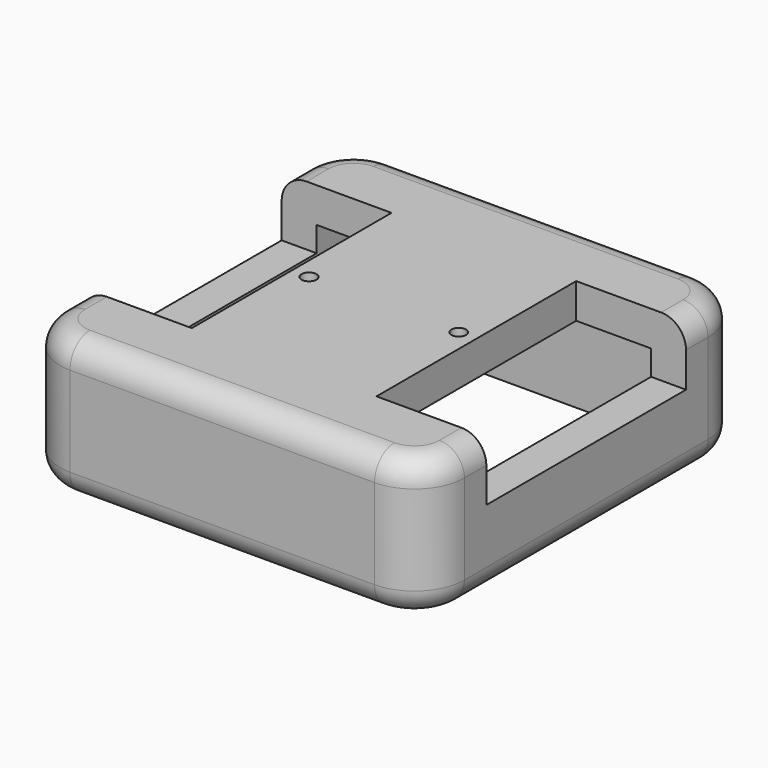
from build123d import *

# Parameters (mm, degrees)
F0_W      = 20.574
F0_H      = 20.574
F1_DEPTH  = 7.112
F2_W      = 17.018
F2_H      = 17.018
F3_DEPTH  = 5.334
F4_R      = 2.54
F5_W      = 5.588
F5_H      = 12.7
F6_DEPTH  = 3.048
F7_W      = 11.176
F7_H      = 12.7
F8_DEPTH  = 3.048
F9_R      = 0.3824187843
F9_R_2    = 0.3770429502
F10_DEPTH = 1.778
F11_R     = 1.27
F12_R     = 1.27


with BuildPart() as f1:
    # F0 (on Top) → F1 (new body)
    with BuildSketch(Plane.XY):
        Rectangle(F0_W, F0_H)
    extrude(amount=F1_DEPTH)

    # F2 (on face) → F3 (cut)
    with BuildSketch(Plane(origin=(0, 0, 0), x_dir=(1, 0, 0), z_dir=(0, 0, -1))):
        Rectangle(F2_W, F2_H)
    extrude(amount=-F3_DEPTH, mode=Mode.SUBTRACT)

    # F4
    f4_edges = [f1.edges().sort_by_distance(p)[0] for p in [
        (-10.287, -10.287, 3.556),
        (10.287, 10.287, 3.556),
        (10.287, -10.287, 3.556),
        (-10.287, 10.287, 3.556),
    ]]
    fillet(f4_edges, radius=F4_R)

    # F5 (on face) → F6 (cut)
    with BuildSketch(Plane.XY.offset(7.112)):
        with Locations((-7.493, 0)):
            Rectangle(F5_W, F5_H)
    extrude(amount=-F6_DEPTH, mode=Mode.SUBTRACT)

    # F7 (on face) → F8 (cut)
    with BuildSketch(Plane.XY.offset(7.112)):
        with Locations((10.287, 0)):
            Rectangle(F7_W, F7_H)
    extrude(amount=-F8_DEPTH, mode=Mode.SUBTRACT)

    # F9 (on face) → F10 (cut)
    with BuildSketch(Plane.XY.offset(7.112)):
        with Locations((-3.8157331292, 0)):
            Circle(F9_R)
        with Locations((3.8035737816, 0)):
            Circle(F9_R_2)
    extrude(amount=-F10_DEPTH, mode=Mode.SUBTRACT)

    # F11
    f11_edges = [f1.edges().sort_by_distance(p)[0] for p in [
        (0, 10.287, 7.112),
        (0, -10.287, 7.112),
    ]]
    fillet(f11_edges, radius=F11_R)

    # F12
    f12_edges = [f1.edges().sort_by_distance(p)[0] for p in [
        (-10.287, 0, 0),
        (0, 10.287, 0),
        (-9.543051, 9.543051, 0),
    ]]
    fillet(f12_edges, radius=F12_R)


solid = f1.part
